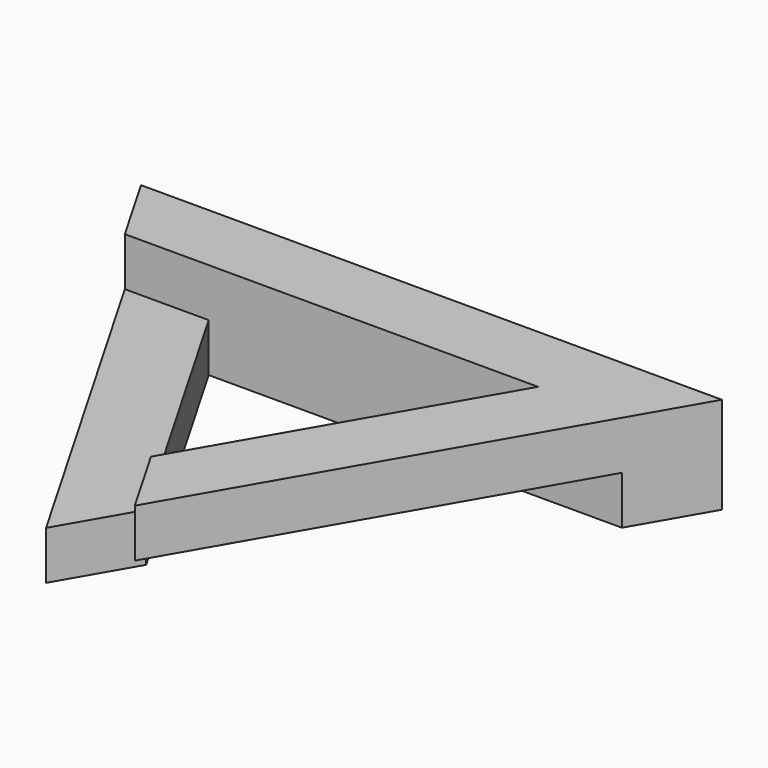
from build123d import *

# Parameters (mm, degrees)
F1_DEPTH  = 10
F3_DEPTH  = 10.001
F7_DEPTH  = 10.001
F8_DEPTH  = 10.001
F9_DEPTH  = 5
F10_DEPTH = 5


with BuildPart() as f1:
    # F0 (on Top) → F1 (new body)
    with BuildSketch(Plane.XY):
        Polygon((30, 17.320508), (-30, 17.320508), (0, -34.641016), align=None)
    extrude(amount=F1_DEPTH)

    # F2 (on face) → F3 (cut, through all)
    with BuildSketch(Plane.XY.offset(10)):
        Polygon((17.009619, 9.820508), (-17.009619, 9.820508), (0, -19.641016), align=None)
    extrude(amount=-F3_DEPTH, mode=Mode.SUBTRACT)

    # F6 (on face) → F7 (cut, through all)
    with BuildSketch(Plane(origin=(0, 0, 0), x_dir=(1, 0, 0), z_dir=(0, 0, -1))):
        Polygon((4.330127, 27.141016), (0, 34.641016), (0, 19.641016), (0.25, 19.208003), (4.580127, 26.708003), align=None)
        Polygon((0, 19.641016), (0, 34.641016), (-4.330127, 27.141016), (-4.580127, 26.708003), (-0.25, 19.208003), align=None)
        Polygon((0.25, 19.208003), (0, 19.641016), (-0.25, 19.208003), align=None)
    extrude(amount=-F7_DEPTH, mode=Mode.SUBTRACT)

    # F6 (on face) → F8 (cut, through all)
    with BuildSketch(Plane(origin=(0, 0, 0), x_dir=(1, 0, 0), z_dir=(0, 0, -1))):
        Polygon((4.330127, 27.141016), (0, 34.641016), (0, 19.641016), (0.25, 19.208003), (4.580127, 26.708003), align=None)
        Polygon((0, 19.641016), (0, 34.641016), (-4.330127, 27.141016), (-4.580127, 26.708003), (-0.25, 19.208003), align=None)
        Polygon((0.25, 19.208003), (0, 19.641016), (-0.25, 19.208003), align=None)
    extrude(amount=-F8_DEPTH, mode=Mode.SUBTRACT)

    # F5 (on face) → F9 (cut)
    with BuildSketch(Plane.XY.offset(10)):
        Polygon((0, -34.641016), (0, -19.641016), (-17.009619, 9.820508), (-25.669873, 9.820508), align=None)
    extrude(amount=-F9_DEPTH, mode=Mode.SUBTRACT)

    # F4 (on face) → F10 (cut)
    with BuildSketch(Plane(origin=(0, 0, 0), x_dir=(1, 0, 0), z_dir=(0, 0, -1))):
        Polygon((0, 34.641016), (0, 19.641016), (17.009619, -9.820508), (25.669873, -9.820508), align=None)
    extrude(amount=-F10_DEPTH, mode=Mode.SUBTRACT)


solid = f1.part
